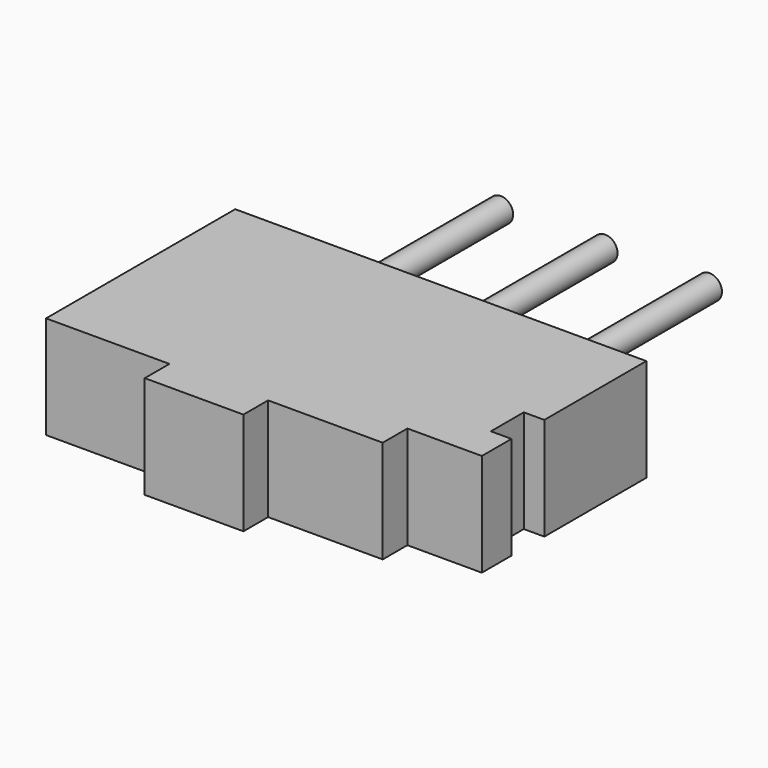
from build123d import *

# Parameters (mm, degrees)
F1_DEPTH = 2.5
F2_W     = 8.188494
F2_H     = 2.5
F3_DEPTH = 0.75
F4_W     = 1.2
F4_H     = 2.5
F5_DEPTH = 0.75
F6_R     = 0.3
F7_DEPTH = 5


with BuildPart() as f1:
    # F0 (on Top) → F1 (new body)
    with BuildSketch(Plane.XY):
        Polygon((5, -0.6), (5, 2.5), (-5, 2.5), (-5, -2.5), (5, -2.5), (5, -1.6), (4.5, -1.6), (4.5, -0.6), align=None)
    extrude(amount=F1_DEPTH)

    # F2 (on face) → F3 (join)
    with BuildSketch(Plane.XZ.offset(2.5)):
        with Locations((-0.905753, 1.25)):
            Rectangle(F2_W, F2_H)
    extrude(amount=F3_DEPTH)

    # F4 (on face) → F5 (join)
    with BuildSketch(Plane.XZ.offset(3.25)):
        with Locations((-1.4, 1.25)):
            Rectangle(F4_W, F4_H)
        with Locations((-0.2, 1.25)):
            Rectangle(F4_W, F4_H)
    extrude(amount=F5_DEPTH)

    # F6 (on face) → F7 (join)
    with BuildSketch(Plane(origin=(0, 2.5, 0), x_dir=(-1, 0, 0), z_dir=(0, 1, 0))):
        with Locations((2.54, 1.25)):
            Circle(F6_R)
        with Locations((0, 1.25)):
            Circle(F6_R)
        with Locations((-2.54, 1.25)):
            Circle(F6_R)
    extrude(amount=F7_DEPTH)


solid = f1.part
